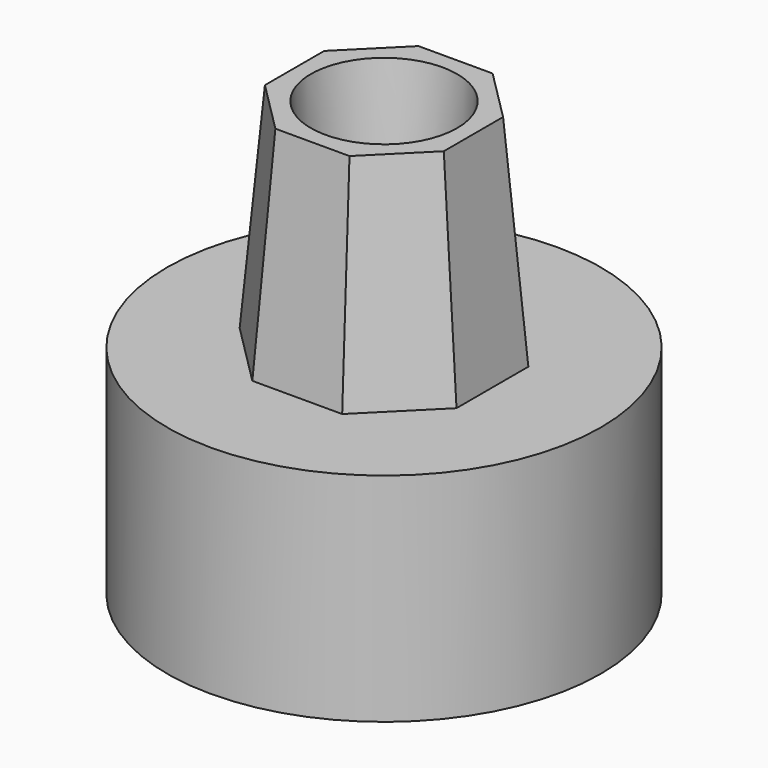
from build123d import *

# Parameters (mm, degrees)
F0_R     = 25.4
F1_DEPTH = 12.7
F2_R     = 6.35
F3_DEPTH = 25.4
F3_TAPER = 5


with BuildPart() as f1:
    # F0 (on Top) → F1 (new body, symmetric)
    with BuildSketch(Plane.XY):
        Circle(F0_R)
    extrude(amount=F1_DEPTH, both=True)

    # F2 (on face) → F3 (join)
    with BuildSketch(Plane.XY.offset(12.7)):
        Polygon((12.7, -5.2605122421), (12.7, 5.2605122421), (5.2605122421, 12.7), (-5.2605122421, 12.7), (-12.7, 5.2605122421), (-12.7, -5.2605122421), (-5.2605122421, -12.7), (5.2605122421, -12.7), align=None)
        Circle(F2_R, mode=Mode.SUBTRACT)
    extrude(amount=F3_DEPTH, taper=F3_TAPER)


solid = f1.part
